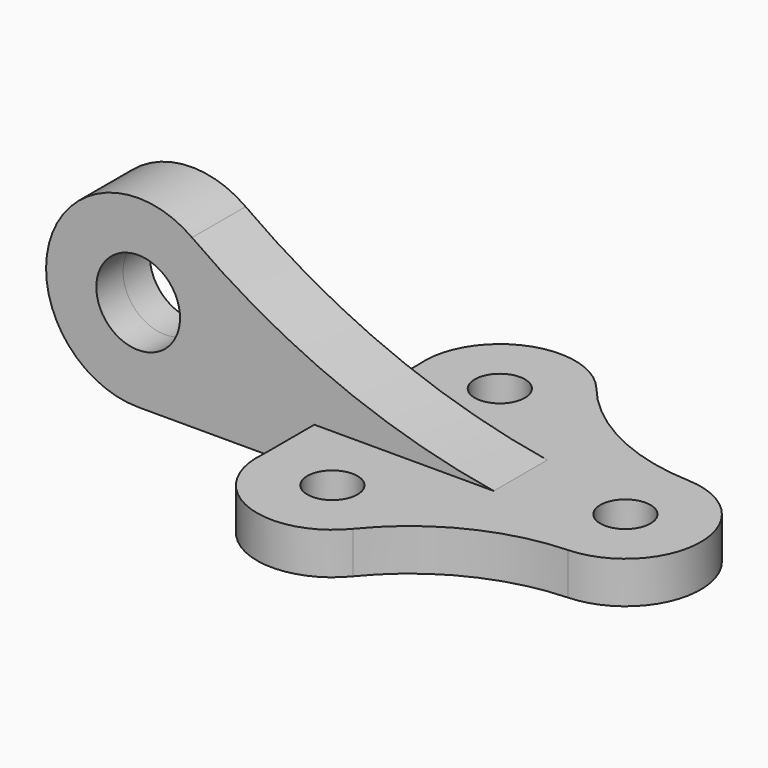
from build123d import *

# Parameters (mm, degrees)
F0_R          = 6
F1_DEPTH      = 10
F2_R          = 10
F3_DEPTH      = 8
F3_DEPTH_BACK = 8


with BuildPart() as f1:
    # F0 (on Top) → F1 (new body)
    with BuildSketch(Plane.XY):
        with BuildLine():
            ThreePointArc((50.720724, 17.985565), (30.362055, 23.224109), (13.956018, 36.367918))
            ThreePointArc((13.956018, 36.367918), (-6.862265, 41.640593), (-17.912368, 23.226))
            Line((-17.912368, 23.226), (-17.912368, -23.226))
            ThreePointArc((-17.912368, -23.226), (-6.862265, -41.640593), (13.956018, -36.367918))
            ThreePointArc((13.956018, -36.367918), (30.362055, -23.224109), (50.720724, -17.985565))
            ThreePointArc((50.720724, -17.985565), (68, 0), (50.720724, 17.985565))
        make_face()
        with Locations((0, -25)):
            Circle(F0_R, mode=Mode.SUBTRACT)
        with Locations((0, 25)):
            Circle(F0_R, mode=Mode.SUBTRACT)
        with Locations((50, 0)):
            Circle(F0_R, mode=Mode.SUBTRACT)
    extrude(amount=F1_DEPTH)

    # F2 (on Front) → F3 (join, two sides)
    with BuildSketch(Plane.XZ) as f3_sk:
        with BuildLine():
            ThreePointArc((24.938122, 10), (-12.836551, 20.714776), (-47.128021, 39.841393))
            ThreePointArc((-47.128021, 39.841393), (-80.934426, 28.763481), (-59.999878, 0))
            Line((-59.999878, 0), (24.938122, 0))
            Line((24.938122, 0), (24.938122, 10))
        make_face()
        with Locations((-59.999878, 22)):
            Circle(F2_R, mode=Mode.SUBTRACT)
    extrude(amount=F3_DEPTH)
    extrude(f3_sk.sketch, amount=-F3_DEPTH_BACK)


solid = f1.part
